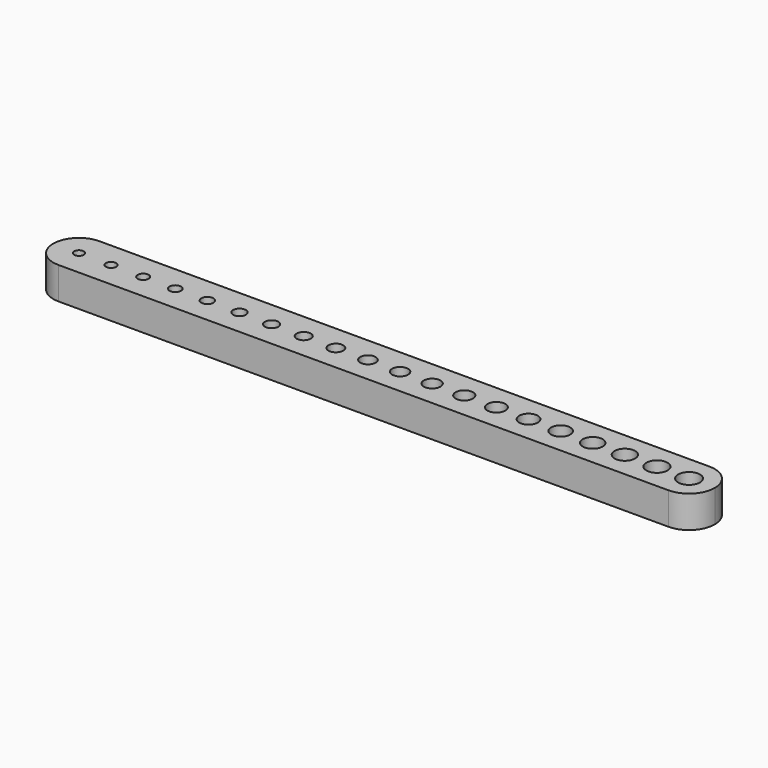
from build123d import *

# Parameters (mm, degrees)
F0_R     = 0.75
F0_R_2   = 0.79996447
F0_R_3   = 0.8499664439
F0_R_4   = 0.8999684178
F0_R_5   = 0.9499703917
F0_R_6   = 0.9999723655
F0_R_7   = 1.0499743394
F0_R_8   = 1.0999763133
F0_R_9   = 1.1499782872
F0_R_10  = 1.1999802611
F0_R_11  = 1.249982235
F0_R_12  = 1.2999842089
F0_R_13  = 1.3499861828
F0_R_14  = 1.3999881567
F0_R_15  = 1.4499901306
F0_R_16  = 1.4999921044
F0_R_17  = 1.5499940783
F0_R_18  = 1.5999960522
F0_R_19  = 1.6499980261
F0_R_20  = 1.7
F1_DEPTH = 5


with BuildPart() as f1:
    # F0 (on Top) → F1 (new body)
    with BuildSketch(Plane.XY):
        with BuildLine():
            ThreePointArc((0, 4), (1.1715728753, 1.1715728753), (4, 0))
            Line((4, 0), (99, 0))
            ThreePointArc((99, 0), (101.8284271247, 1.1715728753), (103, 4))
            ThreePointArc((103, 4), (101.8284271247, 6.8284271247), (99, 8))
            Line((99, 8), (94, 8))
            Line((94, 8), (89, 8))
            Line((89, 8), (84, 8))
            Line((84, 8), (79, 8))
            Line((79, 8), (74, 8))
            Line((74, 8), (69, 8))
            Line((69, 8), (64, 8))
            Line((64, 8), (59, 8))
            Line((59, 8), (54, 8))
            Line((54, 8), (49, 8))
            Line((49, 8), (44, 8))
            Line((44, 8), (39, 8))
            Line((39, 8), (34, 8))
            Line((34, 8), (29, 8))
            Line((29, 8), (24, 8))
            Line((24, 8), (19, 8))
            Line((19, 8), (14, 8))
            Line((14, 8), (9, 8))
            Line((9, 8), (4, 8))
            ThreePointArc((4, 8), (1.1715728753, 6.8284271247), (0, 4))
        make_face()
        with Locations((4, 4)):
            Circle(F0_R, mode=Mode.SUBTRACT)
        with Locations((9, 4)):
            Circle(F0_R_2, mode=Mode.SUBTRACT)
        with Locations((14, 4)):
            Circle(F0_R_3, mode=Mode.SUBTRACT)
        with Locations((19, 4)):
            Circle(F0_R_4, mode=Mode.SUBTRACT)
        with Locations((24, 4)):
            Circle(F0_R_5, mode=Mode.SUBTRACT)
        with Locations((29, 4)):
            Circle(F0_R_6, mode=Mode.SUBTRACT)
        with Locations((34, 4)):
            Circle(F0_R_7, mode=Mode.SUBTRACT)
        with Locations((39, 4)):
            Circle(F0_R_8, mode=Mode.SUBTRACT)
        with Locations((44, 4)):
            Circle(F0_R_9, mode=Mode.SUBTRACT)
        with Locations((49, 4)):
            Circle(F0_R_10, mode=Mode.SUBTRACT)
        with Locations((54, 4)):
            Circle(F0_R_11, mode=Mode.SUBTRACT)
        with Locations((59, 4)):
            Circle(F0_R_12, mode=Mode.SUBTRACT)
        with Locations((64, 4)):
            Circle(F0_R_13, mode=Mode.SUBTRACT)
        with Locations((69, 4)):
            Circle(F0_R_14, mode=Mode.SUBTRACT)
        with Locations((74, 4)):
            Circle(F0_R_15, mode=Mode.SUBTRACT)
        with Locations((79, 4)):
            Circle(F0_R_16, mode=Mode.SUBTRACT)
        with Locations((84, 4)):
            Circle(F0_R_17, mode=Mode.SUBTRACT)
        with Locations((89, 4)):
            Circle(F0_R_18, mode=Mode.SUBTRACT)
        with Locations((94, 4)):
            Circle(F0_R_19, mode=Mode.SUBTRACT)
        with Locations((99, 4)):
            Circle(F0_R_20, mode=Mode.SUBTRACT)
        with BuildLine():
            ThreePointArc((0, 4), (1.1715728753, 1.1715728753), (4, 0))
            Line((4, 0), (99, 0))
            ThreePointArc((99, 0), (101.8284271247, 1.1715728753), (103, 4))
            ThreePointArc((103, 4), (101.8284271247, 6.8284271247), (99, 8))
            Line((99, 8), (94, 8))
            Line((94, 8), (89, 8))
            Line((89, 8), (84, 8))
            Line((84, 8), (79, 8))
            Line((79, 8), (74, 8))
            Line((74, 8), (69, 8))
            Line((69, 8), (64, 8))
            Line((64, 8), (59, 8))
            Line((59, 8), (54, 8))
            Line((54, 8), (49, 8))
            Line((49, 8), (44, 8))
            Line((44, 8), (39, 8))
            Line((39, 8), (34, 8))
            Line((34, 8), (29, 8))
            Line((29, 8), (24, 8))
            Line((24, 8), (19, 8))
            Line((19, 8), (14, 8))
            Line((14, 8), (9, 8))
            Line((9, 8), (4, 8))
            ThreePointArc((4, 8), (1.1715728753, 6.8284271247), (0, 4))
        make_face()
        with Locations((4, 4)):
            Circle(F0_R, mode=Mode.SUBTRACT)
        with Locations((9, 4)):
            Circle(F0_R_2, mode=Mode.SUBTRACT)
        with Locations((14, 4)):
            Circle(F0_R_3, mode=Mode.SUBTRACT)
        with Locations((19, 4)):
            Circle(F0_R_4, mode=Mode.SUBTRACT)
        with Locations((24, 4)):
            Circle(F0_R_5, mode=Mode.SUBTRACT)
        with Locations((29, 4)):
            Circle(F0_R_6, mode=Mode.SUBTRACT)
        with Locations((34, 4)):
            Circle(F0_R_7, mode=Mode.SUBTRACT)
        with Locations((39, 4)):
            Circle(F0_R_8, mode=Mode.SUBTRACT)
        with Locations((44, 4)):
            Circle(F0_R_9, mode=Mode.SUBTRACT)
        with Locations((49, 4)):
            Circle(F0_R_10, mode=Mode.SUBTRACT)
        with Locations((54, 4)):
            Circle(F0_R_11, mode=Mode.SUBTRACT)
        with Locations((59, 4)):
            Circle(F0_R_12, mode=Mode.SUBTRACT)
        with Locations((64, 4)):
            Circle(F0_R_13, mode=Mode.SUBTRACT)
        with Locations((69, 4)):
            Circle(F0_R_14, mode=Mode.SUBTRACT)
        with Locations((74, 4)):
            Circle(F0_R_15, mode=Mode.SUBTRACT)
        with Locations((79, 4)):
            Circle(F0_R_16, mode=Mode.SUBTRACT)
        with Locations((84, 4)):
            Circle(F0_R_17, mode=Mode.SUBTRACT)
        with Locations((89, 4)):
            Circle(F0_R_18, mode=Mode.SUBTRACT)
        with Locations((94, 4)):
            Circle(F0_R_19, mode=Mode.SUBTRACT)
        with Locations((99, 4)):
            Circle(F0_R_20, mode=Mode.SUBTRACT)
        with BuildLine():
            ThreePointArc((0, 4), (1.1715728753, 1.1715728753), (4, 0))
            Line((4, 0), (99, 0))
            ThreePointArc((99, 0), (101.8284271247, 1.1715728753), (103, 4))
            ThreePointArc((103, 4), (101.8284271247, 6.8284271247), (99, 8))
            Line((99, 8), (94, 8))
            Line((94, 8), (89, 8))
            Line((89, 8), (84, 8))
            Line((84, 8), (79, 8))
            Line((79, 8), (74, 8))
            Line((74, 8), (69, 8))
            Line((69, 8), (64, 8))
            Line((64, 8), (59, 8))
            Line((59, 8), (54, 8))
            Line((54, 8), (49, 8))
            Line((49, 8), (44, 8))
            Line((44, 8), (39, 8))
            Line((39, 8), (34, 8))
            Line((34, 8), (29, 8))
            Line((29, 8), (24, 8))
            Line((24, 8), (19, 8))
            Line((19, 8), (14, 8))
            Line((14, 8), (9, 8))
            Line((9, 8), (4, 8))
            ThreePointArc((4, 8), (1.1715728753, 6.8284271247), (0, 4))
        make_face()
        with Locations((4, 4)):
            Circle(F0_R, mode=Mode.SUBTRACT)
        with Locations((9, 4)):
            Circle(F0_R_2, mode=Mode.SUBTRACT)
        with Locations((14, 4)):
            Circle(F0_R_3, mode=Mode.SUBTRACT)
        with Locations((19, 4)):
            Circle(F0_R_4, mode=Mode.SUBTRACT)
        with Locations((24, 4)):
            Circle(F0_R_5, mode=Mode.SUBTRACT)
        with Locations((29, 4)):
            Circle(F0_R_6, mode=Mode.SUBTRACT)
        with Locations((34, 4)):
            Circle(F0_R_7, mode=Mode.SUBTRACT)
        with Locations((39, 4)):
            Circle(F0_R_8, mode=Mode.SUBTRACT)
        with Locations((44, 4)):
            Circle(F0_R_9, mode=Mode.SUBTRACT)
        with Locations((49, 4)):
            Circle(F0_R_10, mode=Mode.SUBTRACT)
        with Locations((54, 4)):
            Circle(F0_R_11, mode=Mode.SUBTRACT)
        with Locations((59, 4)):
            Circle(F0_R_12, mode=Mode.SUBTRACT)
        with Locations((64, 4)):
            Circle(F0_R_13, mode=Mode.SUBTRACT)
        with Locations((69, 4)):
            Circle(F0_R_14, mode=Mode.SUBTRACT)
        with Locations((74, 4)):
            Circle(F0_R_15, mode=Mode.SUBTRACT)
        with Locations((79, 4)):
            Circle(F0_R_16, mode=Mode.SUBTRACT)
        with Locations((84, 4)):
            Circle(F0_R_17, mode=Mode.SUBTRACT)
        with Locations((89, 4)):
            Circle(F0_R_18, mode=Mode.SUBTRACT)
        with Locations((94, 4)):
            Circle(F0_R_19, mode=Mode.SUBTRACT)
        with Locations((99, 4)):
            Circle(F0_R_20, mode=Mode.SUBTRACT)
        with BuildLine():
            ThreePointArc((0, 4), (1.1715728753, 1.1715728753), (4, 0))
            Line((4, 0), (99, 0))
            ThreePointArc((99, 0), (101.8284271247, 1.1715728753), (103, 4))
            ThreePointArc((103, 4), (101.8284271247, 6.8284271247), (99, 8))
            Line((99, 8), (94, 8))
            Line((94, 8), (89, 8))
            Line((89, 8), (84, 8))
            Line((84, 8), (79, 8))
            Line((79, 8), (74, 8))
            Line((74, 8), (69, 8))
            Line((69, 8), (64, 8))
            Line((64, 8), (59, 8))
            Line((59, 8), (54, 8))
            Line((54, 8), (49, 8))
            Line((49, 8), (44, 8))
            Line((44, 8), (39, 8))
            Line((39, 8), (34, 8))
            Line((34, 8), (29, 8))
            Line((29, 8), (24, 8))
            Line((24, 8), (19, 8))
            Line((19, 8), (14, 8))
            Line((14, 8), (9, 8))
            Line((9, 8), (4, 8))
            ThreePointArc((4, 8), (1.1715728753, 6.8284271247), (0, 4))
        make_face()
        with Locations((4, 4)):
            Circle(F0_R, mode=Mode.SUBTRACT)
        with Locations((9, 4)):
            Circle(F0_R_2, mode=Mode.SUBTRACT)
        with Locations((14, 4)):
            Circle(F0_R_3, mode=Mode.SUBTRACT)
        with Locations((19, 4)):
            Circle(F0_R_4, mode=Mode.SUBTRACT)
        with Locations((24, 4)):
            Circle(F0_R_5, mode=Mode.SUBTRACT)
        with Locations((29, 4)):
            Circle(F0_R_6, mode=Mode.SUBTRACT)
        with Locations((34, 4)):
            Circle(F0_R_7, mode=Mode.SUBTRACT)
        with Locations((39, 4)):
            Circle(F0_R_8, mode=Mode.SUBTRACT)
        with Locations((44, 4)):
            Circle(F0_R_9, mode=Mode.SUBTRACT)
        with Locations((49, 4)):
            Circle(F0_R_10, mode=Mode.SUBTRACT)
        with Locations((54, 4)):
            Circle(F0_R_11, mode=Mode.SUBTRACT)
        with Locations((59, 4)):
            Circle(F0_R_12, mode=Mode.SUBTRACT)
        with Locations((64, 4)):
            Circle(F0_R_13, mode=Mode.SUBTRACT)
        with Locations((69, 4)):
            Circle(F0_R_14, mode=Mode.SUBTRACT)
        with Locations((74, 4)):
            Circle(F0_R_15, mode=Mode.SUBTRACT)
        with Locations((79, 4)):
            Circle(F0_R_16, mode=Mode.SUBTRACT)
        with Locations((84, 4)):
            Circle(F0_R_17, mode=Mode.SUBTRACT)
        with Locations((89, 4)):
            Circle(F0_R_18, mode=Mode.SUBTRACT)
        with Locations((94, 4)):
            Circle(F0_R_19, mode=Mode.SUBTRACT)
        with Locations((99, 4)):
            Circle(F0_R_20, mode=Mode.SUBTRACT)
        with BuildLine():
            ThreePointArc((0, 4), (1.1715728753, 1.1715728753), (4, 0))
            Line((4, 0), (99, 0))
            ThreePointArc((99, 0), (101.8284271247, 1.1715728753), (103, 4))
            ThreePointArc((103, 4), (101.8284271247, 6.8284271247), (99, 8))
            Line((99, 8), (94, 8))
            Line((94, 8), (89, 8))
            Line((89, 8), (84, 8))
            Line((84, 8), (79, 8))
            Line((79, 8), (74, 8))
            Line((74, 8), (69, 8))
            Line((69, 8), (64, 8))
            Line((64, 8), (59, 8))
            Line((59, 8), (54, 8))
            Line((54, 8), (49, 8))
            Line((49, 8), (44, 8))
            Line((44, 8), (39, 8))
            Line((39, 8), (34, 8))
            Line((34, 8), (29, 8))
            Line((29, 8), (24, 8))
            Line((24, 8), (19, 8))
            Line((19, 8), (14, 8))
            Line((14, 8), (9, 8))
            Line((9, 8), (4, 8))
            ThreePointArc((4, 8), (1.1715728753, 6.8284271247), (0, 4))
        make_face()
        with Locations((4, 4)):
            Circle(F0_R, mode=Mode.SUBTRACT)
        with Locations((9, 4)):
            Circle(F0_R_2, mode=Mode.SUBTRACT)
        with Locations((14, 4)):
            Circle(F0_R_3, mode=Mode.SUBTRACT)
        with Locations((19, 4)):
            Circle(F0_R_4, mode=Mode.SUBTRACT)
        with Locations((24, 4)):
            Circle(F0_R_5, mode=Mode.SUBTRACT)
        with Locations((29, 4)):
            Circle(F0_R_6, mode=Mode.SUBTRACT)
        with Locations((34, 4)):
            Circle(F0_R_7, mode=Mode.SUBTRACT)
        with Locations((39, 4)):
            Circle(F0_R_8, mode=Mode.SUBTRACT)
        with Locations((44, 4)):
            Circle(F0_R_9, mode=Mode.SUBTRACT)
        with Locations((49, 4)):
            Circle(F0_R_10, mode=Mode.SUBTRACT)
        with Locations((54, 4)):
            Circle(F0_R_11, mode=Mode.SUBTRACT)
        with Locations((59, 4)):
            Circle(F0_R_12, mode=Mode.SUBTRACT)
        with Locations((64, 4)):
            Circle(F0_R_13, mode=Mode.SUBTRACT)
        with Locations((69, 4)):
            Circle(F0_R_14, mode=Mode.SUBTRACT)
        with Locations((74, 4)):
            Circle(F0_R_15, mode=Mode.SUBTRACT)
        with Locations((79, 4)):
            Circle(F0_R_16, mode=Mode.SUBTRACT)
        with Locations((84, 4)):
            Circle(F0_R_17, mode=Mode.SUBTRACT)
        with Locations((89, 4)):
            Circle(F0_R_18, mode=Mode.SUBTRACT)
        with Locations((94, 4)):
            Circle(F0_R_19, mode=Mode.SUBTRACT)
        with Locations((99, 4)):
            Circle(F0_R_20, mode=Mode.SUBTRACT)
        with BuildLine():
            ThreePointArc((0, 4), (1.1715728753, 1.1715728753), (4, 0))
            Line((4, 0), (99, 0))
            ThreePointArc((99, 0), (101.8284271247, 1.1715728753), (103, 4))
            ThreePointArc((103, 4), (101.8284271247, 6.8284271247), (99, 8))
            Line((99, 8), (94, 8))
            Line((94, 8), (89, 8))
            Line((89, 8), (84, 8))
            Line((84, 8), (79, 8))
            Line((79, 8), (74, 8))
            Line((74, 8), (69, 8))
            Line((69, 8), (64, 8))
            Line((64, 8), (59, 8))
            Line((59, 8), (54, 8))
            Line((54, 8), (49, 8))
            Line((49, 8), (44, 8))
            Line((44, 8), (39, 8))
            Line((39, 8), (34, 8))
            Line((34, 8), (29, 8))
            Line((29, 8), (24, 8))
            Line((24, 8), (19, 8))
            Line((19, 8), (14, 8))
            Line((14, 8), (9, 8))
            Line((9, 8), (4, 8))
            ThreePointArc((4, 8), (1.1715728753, 6.8284271247), (0, 4))
        make_face()
        with Locations((4, 4)):
            Circle(F0_R, mode=Mode.SUBTRACT)
        with Locations((9, 4)):
            Circle(F0_R_2, mode=Mode.SUBTRACT)
        with Locations((14, 4)):
            Circle(F0_R_3, mode=Mode.SUBTRACT)
        with Locations((19, 4)):
            Circle(F0_R_4, mode=Mode.SUBTRACT)
        with Locations((24, 4)):
            Circle(F0_R_5, mode=Mode.SUBTRACT)
        with Locations((29, 4)):
            Circle(F0_R_6, mode=Mode.SUBTRACT)
        with Locations((34, 4)):
            Circle(F0_R_7, mode=Mode.SUBTRACT)
        with Locations((39, 4)):
            Circle(F0_R_8, mode=Mode.SUBTRACT)
        with Locations((44, 4)):
            Circle(F0_R_9, mode=Mode.SUBTRACT)
        with Locations((49, 4)):
            Circle(F0_R_10, mode=Mode.SUBTRACT)
        with Locations((54, 4)):
            Circle(F0_R_11, mode=Mode.SUBTRACT)
        with Locations((59, 4)):
            Circle(F0_R_12, mode=Mode.SUBTRACT)
        with Locations((64, 4)):
            Circle(F0_R_13, mode=Mode.SUBTRACT)
        with Locations((69, 4)):
            Circle(F0_R_14, mode=Mode.SUBTRACT)
        with Locations((74, 4)):
            Circle(F0_R_15, mode=Mode.SUBTRACT)
        with Locations((79, 4)):
            Circle(F0_R_16, mode=Mode.SUBTRACT)
        with Locations((84, 4)):
            Circle(F0_R_17, mode=Mode.SUBTRACT)
        with Locations((89, 4)):
            Circle(F0_R_18, mode=Mode.SUBTRACT)
        with Locations((94, 4)):
            Circle(F0_R_19, mode=Mode.SUBTRACT)
        with Locations((99, 4)):
            Circle(F0_R_20, mode=Mode.SUBTRACT)
        with BuildLine():
            ThreePointArc((0, 4), (1.1715728753, 1.1715728753), (4, 0))
            Line((4, 0), (99, 0))
            ThreePointArc((99, 0), (101.8284271247, 1.1715728753), (103, 4))
            ThreePointArc((103, 4), (101.8284271247, 6.8284271247), (99, 8))
            Line((99, 8), (94, 8))
            Line((94, 8), (89, 8))
            Line((89, 8), (84, 8))
            Line((84, 8), (79, 8))
            Line((79, 8), (74, 8))
            Line((74, 8), (69, 8))
            Line((69, 8), (64, 8))
            Line((64, 8), (59, 8))
            Line((59, 8), (54, 8))
            Line((54, 8), (49, 8))
            Line((49, 8), (44, 8))
            Line((44, 8), (39, 8))
            Line((39, 8), (34, 8))
            Line((34, 8), (29, 8))
            Line((29, 8), (24, 8))
            Line((24, 8), (19, 8))
            Line((19, 8), (14, 8))
            Line((14, 8), (9, 8))
            Line((9, 8), (4, 8))
            ThreePointArc((4, 8), (1.1715728753, 6.8284271247), (0, 4))
        make_face()
        with Locations((4, 4)):
            Circle(F0_R, mode=Mode.SUBTRACT)
        with Locations((9, 4)):
            Circle(F0_R_2, mode=Mode.SUBTRACT)
        with Locations((14, 4)):
            Circle(F0_R_3, mode=Mode.SUBTRACT)
        with Locations((19, 4)):
            Circle(F0_R_4, mode=Mode.SUBTRACT)
        with Locations((24, 4)):
            Circle(F0_R_5, mode=Mode.SUBTRACT)
        with Locations((29, 4)):
            Circle(F0_R_6, mode=Mode.SUBTRACT)
        with Locations((34, 4)):
            Circle(F0_R_7, mode=Mode.SUBTRACT)
        with Locations((39, 4)):
            Circle(F0_R_8, mode=Mode.SUBTRACT)
        with Locations((44, 4)):
            Circle(F0_R_9, mode=Mode.SUBTRACT)
        with Locations((49, 4)):
            Circle(F0_R_10, mode=Mode.SUBTRACT)
        with Locations((54, 4)):
            Circle(F0_R_11, mode=Mode.SUBTRACT)
        with Locations((59, 4)):
            Circle(F0_R_12, mode=Mode.SUBTRACT)
        with Locations((64, 4)):
            Circle(F0_R_13, mode=Mode.SUBTRACT)
        with Locations((69, 4)):
            Circle(F0_R_14, mode=Mode.SUBTRACT)
        with Locations((74, 4)):
            Circle(F0_R_15, mode=Mode.SUBTRACT)
        with Locations((79, 4)):
            Circle(F0_R_16, mode=Mode.SUBTRACT)
        with Locations((84, 4)):
            Circle(F0_R_17, mode=Mode.SUBTRACT)
        with Locations((89, 4)):
            Circle(F0_R_18, mode=Mode.SUBTRACT)
        with Locations((94, 4)):
            Circle(F0_R_19, mode=Mode.SUBTRACT)
        with Locations((99, 4)):
            Circle(F0_R_20, mode=Mode.SUBTRACT)
        with BuildLine():
            ThreePointArc((0, 4), (1.1715728753, 1.1715728753), (4, 0))
            Line((4, 0), (99, 0))
            ThreePointArc((99, 0), (101.8284271247, 1.1715728753), (103, 4))
            ThreePointArc((103, 4), (101.8284271247, 6.8284271247), (99, 8))
            Line((99, 8), (94, 8))
            Line((94, 8), (89, 8))
            Line((89, 8), (84, 8))
            Line((84, 8), (79, 8))
            Line((79, 8), (74, 8))
            Line((74, 8), (69, 8))
            Line((69, 8), (64, 8))
            Line((64, 8), (59, 8))
            Line((59, 8), (54, 8))
            Line((54, 8), (49, 8))
            Line((49, 8), (44, 8))
            Line((44, 8), (39, 8))
            Line((39, 8), (34, 8))
            Line((34, 8), (29, 8))
            Line((29, 8), (24, 8))
            Line((24, 8), (19, 8))
            Line((19, 8), (14, 8))
            Line((14, 8), (9, 8))
            Line((9, 8), (4, 8))
            ThreePointArc((4, 8), (1.1715728753, 6.8284271247), (0, 4))
        make_face()
        with Locations((4, 4)):
            Circle(F0_R, mode=Mode.SUBTRACT)
        with Locations((9, 4)):
            Circle(F0_R_2, mode=Mode.SUBTRACT)
        with Locations((14, 4)):
            Circle(F0_R_3, mode=Mode.SUBTRACT)
        with Locations((19, 4)):
            Circle(F0_R_4, mode=Mode.SUBTRACT)
        with Locations((24, 4)):
            Circle(F0_R_5, mode=Mode.SUBTRACT)
        with Locations((29, 4)):
            Circle(F0_R_6, mode=Mode.SUBTRACT)
        with Locations((34, 4)):
            Circle(F0_R_7, mode=Mode.SUBTRACT)
        with Locations((39, 4)):
            Circle(F0_R_8, mode=Mode.SUBTRACT)
        with Locations((44, 4)):
            Circle(F0_R_9, mode=Mode.SUBTRACT)
        with Locations((49, 4)):
            Circle(F0_R_10, mode=Mode.SUBTRACT)
        with Locations((54, 4)):
            Circle(F0_R_11, mode=Mode.SUBTRACT)
        with Locations((59, 4)):
            Circle(F0_R_12, mode=Mode.SUBTRACT)
        with Locations((64, 4)):
            Circle(F0_R_13, mode=Mode.SUBTRACT)
        with Locations((69, 4)):
            Circle(F0_R_14, mode=Mode.SUBTRACT)
        with Locations((74, 4)):
            Circle(F0_R_15, mode=Mode.SUBTRACT)
        with Locations((79, 4)):
            Circle(F0_R_16, mode=Mode.SUBTRACT)
        with Locations((84, 4)):
            Circle(F0_R_17, mode=Mode.SUBTRACT)
        with Locations((89, 4)):
            Circle(F0_R_18, mode=Mode.SUBTRACT)
        with Locations((94, 4)):
            Circle(F0_R_19, mode=Mode.SUBTRACT)
        with Locations((99, 4)):
            Circle(F0_R_20, mode=Mode.SUBTRACT)
        with BuildLine():
            ThreePointArc((0, 4), (1.1715728753, 1.1715728753), (4, 0))
            Line((4, 0), (99, 0))
            ThreePointArc((99, 0), (101.8284271247, 1.1715728753), (103, 4))
            ThreePointArc((103, 4), (101.8284271247, 6.8284271247), (99, 8))
            Line((99, 8), (94, 8))
            Line((94, 8), (89, 8))
            Line((89, 8), (84, 8))
            Line((84, 8), (79, 8))
            Line((79, 8), (74, 8))
            Line((74, 8), (69, 8))
            Line((69, 8), (64, 8))
            Line((64, 8), (59, 8))
            Line((59, 8), (54, 8))
            Line((54, 8), (49, 8))
            Line((49, 8), (44, 8))
            Line((44, 8), (39, 8))
            Line((39, 8), (34, 8))
            Line((34, 8), (29, 8))
            Line((29, 8), (24, 8))
            Line((24, 8), (19, 8))
            Line((19, 8), (14, 8))
            Line((14, 8), (9, 8))
            Line((9, 8), (4, 8))
            ThreePointArc((4, 8), (1.1715728753, 6.8284271247), (0, 4))
        make_face()
        with Locations((4, 4)):
            Circle(F0_R, mode=Mode.SUBTRACT)
        with Locations((9, 4)):
            Circle(F0_R_2, mode=Mode.SUBTRACT)
        with Locations((14, 4)):
            Circle(F0_R_3, mode=Mode.SUBTRACT)
        with Locations((19, 4)):
            Circle(F0_R_4, mode=Mode.SUBTRACT)
        with Locations((24, 4)):
            Circle(F0_R_5, mode=Mode.SUBTRACT)
        with Locations((29, 4)):
            Circle(F0_R_6, mode=Mode.SUBTRACT)
        with Locations((34, 4)):
            Circle(F0_R_7, mode=Mode.SUBTRACT)
        with Locations((39, 4)):
            Circle(F0_R_8, mode=Mode.SUBTRACT)
        with Locations((44, 4)):
            Circle(F0_R_9, mode=Mode.SUBTRACT)
        with Locations((49, 4)):
            Circle(F0_R_10, mode=Mode.SUBTRACT)
        with Locations((54, 4)):
            Circle(F0_R_11, mode=Mode.SUBTRACT)
        with Locations((59, 4)):
            Circle(F0_R_12, mode=Mode.SUBTRACT)
        with Locations((64, 4)):
            Circle(F0_R_13, mode=Mode.SUBTRACT)
        with Locations((69, 4)):
            Circle(F0_R_14, mode=Mode.SUBTRACT)
        with Locations((74, 4)):
            Circle(F0_R_15, mode=Mode.SUBTRACT)
        with Locations((79, 4)):
            Circle(F0_R_16, mode=Mode.SUBTRACT)
        with Locations((84, 4)):
            Circle(F0_R_17, mode=Mode.SUBTRACT)
        with Locations((89, 4)):
            Circle(F0_R_18, mode=Mode.SUBTRACT)
        with Locations((94, 4)):
            Circle(F0_R_19, mode=Mode.SUBTRACT)
        with Locations((99, 4)):
            Circle(F0_R_20, mode=Mode.SUBTRACT)
        with BuildLine():
            ThreePointArc((0, 4), (1.1715728753, 1.1715728753), (4, 0))
            Line((4, 0), (99, 0))
            ThreePointArc((99, 0), (101.8284271247, 1.1715728753), (103, 4))
            ThreePointArc((103, 4), (101.8284271247, 6.8284271247), (99, 8))
            Line((99, 8), (94, 8))
            Line((94, 8), (89, 8))
            Line((89, 8), (84, 8))
            Line((84, 8), (79, 8))
            Line((79, 8), (74, 8))
            Line((74, 8), (69, 8))
            Line((69, 8), (64, 8))
            Line((64, 8), (59, 8))
            Line((59, 8), (54, 8))
            Line((54, 8), (49, 8))
            Line((49, 8), (44, 8))
            Line((44, 8), (39, 8))
            Line((39, 8), (34, 8))
            Line((34, 8), (29, 8))
            Line((29, 8), (24, 8))
            Line((24, 8), (19, 8))
            Line((19, 8), (14, 8))
            Line((14, 8), (9, 8))
            Line((9, 8), (4, 8))
            ThreePointArc((4, 8), (1.1715728753, 6.8284271247), (0, 4))
        make_face()
        with Locations((4, 4)):
            Circle(F0_R, mode=Mode.SUBTRACT)
        with Locations((9, 4)):
            Circle(F0_R_2, mode=Mode.SUBTRACT)
        with Locations((14, 4)):
            Circle(F0_R_3, mode=Mode.SUBTRACT)
        with Locations((19, 4)):
            Circle(F0_R_4, mode=Mode.SUBTRACT)
        with Locations((24, 4)):
            Circle(F0_R_5, mode=Mode.SUBTRACT)
        with Locations((29, 4)):
            Circle(F0_R_6, mode=Mode.SUBTRACT)
        with Locations((34, 4)):
            Circle(F0_R_7, mode=Mode.SUBTRACT)
        with Locations((39, 4)):
            Circle(F0_R_8, mode=Mode.SUBTRACT)
        with Locations((44, 4)):
            Circle(F0_R_9, mode=Mode.SUBTRACT)
        with Locations((49, 4)):
            Circle(F0_R_10, mode=Mode.SUBTRACT)
        with Locations((54, 4)):
            Circle(F0_R_11, mode=Mode.SUBTRACT)
        with Locations((59, 4)):
            Circle(F0_R_12, mode=Mode.SUBTRACT)
        with Locations((64, 4)):
            Circle(F0_R_13, mode=Mode.SUBTRACT)
        with Locations((69, 4)):
            Circle(F0_R_14, mode=Mode.SUBTRACT)
        with Locations((74, 4)):
            Circle(F0_R_15, mode=Mode.SUBTRACT)
        with Locations((79, 4)):
            Circle(F0_R_16, mode=Mode.SUBTRACT)
        with Locations((84, 4)):
            Circle(F0_R_17, mode=Mode.SUBTRACT)
        with Locations((89, 4)):
            Circle(F0_R_18, mode=Mode.SUBTRACT)
        with Locations((94, 4)):
            Circle(F0_R_19, mode=Mode.SUBTRACT)
        with Locations((99, 4)):
            Circle(F0_R_20, mode=Mode.SUBTRACT)
        with BuildLine():
            ThreePointArc((0, 4), (1.1715728753, 1.1715728753), (4, 0))
            Line((4, 0), (99, 0))
            ThreePointArc((99, 0), (101.8284271247, 1.1715728753), (103, 4))
            ThreePointArc((103, 4), (101.8284271247, 6.8284271247), (99, 8))
            Line((99, 8), (94, 8))
            Line((94, 8), (89, 8))
            Line((89, 8), (84, 8))
            Line((84, 8), (79, 8))
            Line((79, 8), (74, 8))
            Line((74, 8), (69, 8))
            Line((69, 8), (64, 8))
            Line((64, 8), (59, 8))
            Line((59, 8), (54, 8))
            Line((54, 8), (49, 8))
            Line((49, 8), (44, 8))
            Line((44, 8), (39, 8))
            Line((39, 8), (34, 8))
            Line((34, 8), (29, 8))
            Line((29, 8), (24, 8))
            Line((24, 8), (19, 8))
            Line((19, 8), (14, 8))
            Line((14, 8), (9, 8))
            Line((9, 8), (4, 8))
            ThreePointArc((4, 8), (1.1715728753, 6.8284271247), (0, 4))
        make_face()
        with Locations((4, 4)):
            Circle(F0_R, mode=Mode.SUBTRACT)
        with Locations((9, 4)):
            Circle(F0_R_2, mode=Mode.SUBTRACT)
        with Locations((14, 4)):
            Circle(F0_R_3, mode=Mode.SUBTRACT)
        with Locations((19, 4)):
            Circle(F0_R_4, mode=Mode.SUBTRACT)
        with Locations((24, 4)):
            Circle(F0_R_5, mode=Mode.SUBTRACT)
        with Locations((29, 4)):
            Circle(F0_R_6, mode=Mode.SUBTRACT)
        with Locations((34, 4)):
            Circle(F0_R_7, mode=Mode.SUBTRACT)
        with Locations((39, 4)):
            Circle(F0_R_8, mode=Mode.SUBTRACT)
        with Locations((44, 4)):
            Circle(F0_R_9, mode=Mode.SUBTRACT)
        with Locations((49, 4)):
            Circle(F0_R_10, mode=Mode.SUBTRACT)
        with Locations((54, 4)):
            Circle(F0_R_11, mode=Mode.SUBTRACT)
        with Locations((59, 4)):
            Circle(F0_R_12, mode=Mode.SUBTRACT)
        with Locations((64, 4)):
            Circle(F0_R_13, mode=Mode.SUBTRACT)
        with Locations((69, 4)):
            Circle(F0_R_14, mode=Mode.SUBTRACT)
        with Locations((74, 4)):
            Circle(F0_R_15, mode=Mode.SUBTRACT)
        with Locations((79, 4)):
            Circle(F0_R_16, mode=Mode.SUBTRACT)
        with Locations((84, 4)):
            Circle(F0_R_17, mode=Mode.SUBTRACT)
        with Locations((89, 4)):
            Circle(F0_R_18, mode=Mode.SUBTRACT)
        with Locations((94, 4)):
            Circle(F0_R_19, mode=Mode.SUBTRACT)
        with Locations((99, 4)):
            Circle(F0_R_20, mode=Mode.SUBTRACT)
        with BuildLine():
            ThreePointArc((0, 4), (1.1715728753, 1.1715728753), (4, 0))
            Line((4, 0), (99, 0))
            ThreePointArc((99, 0), (101.8284271247, 1.1715728753), (103, 4))
            ThreePointArc((103, 4), (101.8284271247, 6.8284271247), (99, 8))
            Line((99, 8), (94, 8))
            Line((94, 8), (89, 8))
            Line((89, 8), (84, 8))
            Line((84, 8), (79, 8))
            Line((79, 8), (74, 8))
            Line((74, 8), (69, 8))
            Line((69, 8), (64, 8))
            Line((64, 8), (59, 8))
            Line((59, 8), (54, 8))
            Line((54, 8), (49, 8))
            Line((49, 8), (44, 8))
            Line((44, 8), (39, 8))
            Line((39, 8), (34, 8))
            Line((34, 8), (29, 8))
            Line((29, 8), (24, 8))
            Line((24, 8), (19, 8))
            Line((19, 8), (14, 8))
            Line((14, 8), (9, 8))
            Line((9, 8), (4, 8))
            ThreePointArc((4, 8), (1.1715728753, 6.8284271247), (0, 4))
        make_face()
        with Locations((4, 4)):
            Circle(F0_R, mode=Mode.SUBTRACT)
        with Locations((9, 4)):
            Circle(F0_R_2, mode=Mode.SUBTRACT)
        with Locations((14, 4)):
            Circle(F0_R_3, mode=Mode.SUBTRACT)
        with Locations((19, 4)):
            Circle(F0_R_4, mode=Mode.SUBTRACT)
        with Locations((24, 4)):
            Circle(F0_R_5, mode=Mode.SUBTRACT)
        with Locations((29, 4)):
            Circle(F0_R_6, mode=Mode.SUBTRACT)
        with Locations((34, 4)):
            Circle(F0_R_7, mode=Mode.SUBTRACT)
        with Locations((39, 4)):
            Circle(F0_R_8, mode=Mode.SUBTRACT)
        with Locations((44, 4)):
            Circle(F0_R_9, mode=Mode.SUBTRACT)
        with Locations((49, 4)):
            Circle(F0_R_10, mode=Mode.SUBTRACT)
        with Locations((54, 4)):
            Circle(F0_R_11, mode=Mode.SUBTRACT)
        with Locations((59, 4)):
            Circle(F0_R_12, mode=Mode.SUBTRACT)
        with Locations((64, 4)):
            Circle(F0_R_13, mode=Mode.SUBTRACT)
        with Locations((69, 4)):
            Circle(F0_R_14, mode=Mode.SUBTRACT)
        with Locations((74, 4)):
            Circle(F0_R_15, mode=Mode.SUBTRACT)
        with Locations((79, 4)):
            Circle(F0_R_16, mode=Mode.SUBTRACT)
        with Locations((84, 4)):
            Circle(F0_R_17, mode=Mode.SUBTRACT)
        with Locations((89, 4)):
            Circle(F0_R_18, mode=Mode.SUBTRACT)
        with Locations((94, 4)):
            Circle(F0_R_19, mode=Mode.SUBTRACT)
        with Locations((99, 4)):
            Circle(F0_R_20, mode=Mode.SUBTRACT)
        with BuildLine():
            ThreePointArc((0, 4), (1.1715728753, 1.1715728753), (4, 0))
            Line((4, 0), (99, 0))
            ThreePointArc((99, 0), (101.8284271247, 1.1715728753), (103, 4))
            ThreePointArc((103, 4), (101.8284271247, 6.8284271247), (99, 8))
            Line((99, 8), (94, 8))
            Line((94, 8), (89, 8))
            Line((89, 8), (84, 8))
            Line((84, 8), (79, 8))
            Line((79, 8), (74, 8))
            Line((74, 8), (69, 8))
            Line((69, 8), (64, 8))
            Line((64, 8), (59, 8))
            Line((59, 8), (54, 8))
            Line((54, 8), (49, 8))
            Line((49, 8), (44, 8))
            Line((44, 8), (39, 8))
            Line((39, 8), (34, 8))
            Line((34, 8), (29, 8))
            Line((29, 8), (24, 8))
            Line((24, 8), (19, 8))
            Line((19, 8), (14, 8))
            Line((14, 8), (9, 8))
            Line((9, 8), (4, 8))
            ThreePointArc((4, 8), (1.1715728753, 6.8284271247), (0, 4))
        make_face()
        with Locations((4, 4)):
            Circle(F0_R, mode=Mode.SUBTRACT)
        with Locations((9, 4)):
            Circle(F0_R_2, mode=Mode.SUBTRACT)
        with Locations((14, 4)):
            Circle(F0_R_3, mode=Mode.SUBTRACT)
        with Locations((19, 4)):
            Circle(F0_R_4, mode=Mode.SUBTRACT)
        with Locations((24, 4)):
            Circle(F0_R_5, mode=Mode.SUBTRACT)
        with Locations((29, 4)):
            Circle(F0_R_6, mode=Mode.SUBTRACT)
        with Locations((34, 4)):
            Circle(F0_R_7, mode=Mode.SUBTRACT)
        with Locations((39, 4)):
            Circle(F0_R_8, mode=Mode.SUBTRACT)
        with Locations((44, 4)):
            Circle(F0_R_9, mode=Mode.SUBTRACT)
        with Locations((49, 4)):
            Circle(F0_R_10, mode=Mode.SUBTRACT)
        with Locations((54, 4)):
            Circle(F0_R_11, mode=Mode.SUBTRACT)
        with Locations((59, 4)):
            Circle(F0_R_12, mode=Mode.SUBTRACT)
        with Locations((64, 4)):
            Circle(F0_R_13, mode=Mode.SUBTRACT)
        with Locations((69, 4)):
            Circle(F0_R_14, mode=Mode.SUBTRACT)
        with Locations((74, 4)):
            Circle(F0_R_15, mode=Mode.SUBTRACT)
        with Locations((79, 4)):
            Circle(F0_R_16, mode=Mode.SUBTRACT)
        with Locations((84, 4)):
            Circle(F0_R_17, mode=Mode.SUBTRACT)
        with Locations((89, 4)):
            Circle(F0_R_18, mode=Mode.SUBTRACT)
        with Locations((94, 4)):
            Circle(F0_R_19, mode=Mode.SUBTRACT)
        with Locations((99, 4)):
            Circle(F0_R_20, mode=Mode.SUBTRACT)
        with BuildLine():
            ThreePointArc((0, 4), (1.1715728753, 1.1715728753), (4, 0))
            Line((4, 0), (99, 0))
            ThreePointArc((99, 0), (101.8284271247, 1.1715728753), (103, 4))
            ThreePointArc((103, 4), (101.8284271247, 6.8284271247), (99, 8))
            Line((99, 8), (94, 8))
            Line((94, 8), (89, 8))
            Line((89, 8), (84, 8))
            Line((84, 8), (79, 8))
            Line((79, 8), (74, 8))
            Line((74, 8), (69, 8))
            Line((69, 8), (64, 8))
            Line((64, 8), (59, 8))
            Line((59, 8), (54, 8))
            Line((54, 8), (49, 8))
            Line((49, 8), (44, 8))
            Line((44, 8), (39, 8))
            Line((39, 8), (34, 8))
            Line((34, 8), (29, 8))
            Line((29, 8), (24, 8))
            Line((24, 8), (19, 8))
            Line((19, 8), (14, 8))
            Line((14, 8), (9, 8))
            Line((9, 8), (4, 8))
            ThreePointArc((4, 8), (1.1715728753, 6.8284271247), (0, 4))
        make_face()
        with Locations((4, 4)):
            Circle(F0_R, mode=Mode.SUBTRACT)
        with Locations((9, 4)):
            Circle(F0_R_2, mode=Mode.SUBTRACT)
        with Locations((14, 4)):
            Circle(F0_R_3, mode=Mode.SUBTRACT)
        with Locations((19, 4)):
            Circle(F0_R_4, mode=Mode.SUBTRACT)
        with Locations((24, 4)):
            Circle(F0_R_5, mode=Mode.SUBTRACT)
        with Locations((29, 4)):
            Circle(F0_R_6, mode=Mode.SUBTRACT)
        with Locations((34, 4)):
            Circle(F0_R_7, mode=Mode.SUBTRACT)
        with Locations((39, 4)):
            Circle(F0_R_8, mode=Mode.SUBTRACT)
        with Locations((44, 4)):
            Circle(F0_R_9, mode=Mode.SUBTRACT)
        with Locations((49, 4)):
            Circle(F0_R_10, mode=Mode.SUBTRACT)
        with Locations((54, 4)):
            Circle(F0_R_11, mode=Mode.SUBTRACT)
        with Locations((59, 4)):
            Circle(F0_R_12, mode=Mode.SUBTRACT)
        with Locations((64, 4)):
            Circle(F0_R_13, mode=Mode.SUBTRACT)
        with Locations((69, 4)):
            Circle(F0_R_14, mode=Mode.SUBTRACT)
        with Locations((74, 4)):
            Circle(F0_R_15, mode=Mode.SUBTRACT)
        with Locations((79, 4)):
            Circle(F0_R_16, mode=Mode.SUBTRACT)
        with Locations((84, 4)):
            Circle(F0_R_17, mode=Mode.SUBTRACT)
        with Locations((89, 4)):
            Circle(F0_R_18, mode=Mode.SUBTRACT)
        with Locations((94, 4)):
            Circle(F0_R_19, mode=Mode.SUBTRACT)
        with Locations((99, 4)):
            Circle(F0_R_20, mode=Mode.SUBTRACT)
        with BuildLine():
            ThreePointArc((0, 4), (1.1715728753, 1.1715728753), (4, 0))
            Line((4, 0), (99, 0))
            ThreePointArc((99, 0), (101.8284271247, 1.1715728753), (103, 4))
            ThreePointArc((103, 4), (101.8284271247, 6.8284271247), (99, 8))
            Line((99, 8), (94, 8))
            Line((94, 8), (89, 8))
            Line((89, 8), (84, 8))
            Line((84, 8), (79, 8))
            Line((79, 8), (74, 8))
            Line((74, 8), (69, 8))
            Line((69, 8), (64, 8))
            Line((64, 8), (59, 8))
            Line((59, 8), (54, 8))
            Line((54, 8), (49, 8))
            Line((49, 8), (44, 8))
            Line((44, 8), (39, 8))
            Line((39, 8), (34, 8))
            Line((34, 8), (29, 8))
            Line((29, 8), (24, 8))
            Line((24, 8), (19, 8))
            Line((19, 8), (14, 8))
            Line((14, 8), (9, 8))
            Line((9, 8), (4, 8))
            ThreePointArc((4, 8), (1.1715728753, 6.8284271247), (0, 4))
        make_face()
        with Locations((4, 4)):
            Circle(F0_R, mode=Mode.SUBTRACT)
        with Locations((9, 4)):
            Circle(F0_R_2, mode=Mode.SUBTRACT)
        with Locations((14, 4)):
            Circle(F0_R_3, mode=Mode.SUBTRACT)
        with Locations((19, 4)):
            Circle(F0_R_4, mode=Mode.SUBTRACT)
        with Locations((24, 4)):
            Circle(F0_R_5, mode=Mode.SUBTRACT)
        with Locations((29, 4)):
            Circle(F0_R_6, mode=Mode.SUBTRACT)
        with Locations((34, 4)):
            Circle(F0_R_7, mode=Mode.SUBTRACT)
        with Locations((39, 4)):
            Circle(F0_R_8, mode=Mode.SUBTRACT)
        with Locations((44, 4)):
            Circle(F0_R_9, mode=Mode.SUBTRACT)
        with Locations((49, 4)):
            Circle(F0_R_10, mode=Mode.SUBTRACT)
        with Locations((54, 4)):
            Circle(F0_R_11, mode=Mode.SUBTRACT)
        with Locations((59, 4)):
            Circle(F0_R_12, mode=Mode.SUBTRACT)
        with Locations((64, 4)):
            Circle(F0_R_13, mode=Mode.SUBTRACT)
        with Locations((69, 4)):
            Circle(F0_R_14, mode=Mode.SUBTRACT)
        with Locations((74, 4)):
            Circle(F0_R_15, mode=Mode.SUBTRACT)
        with Locations((79, 4)):
            Circle(F0_R_16, mode=Mode.SUBTRACT)
        with Locations((84, 4)):
            Circle(F0_R_17, mode=Mode.SUBTRACT)
        with Locations((89, 4)):
            Circle(F0_R_18, mode=Mode.SUBTRACT)
        with Locations((94, 4)):
            Circle(F0_R_19, mode=Mode.SUBTRACT)
        with Locations((99, 4)):
            Circle(F0_R_20, mode=Mode.SUBTRACT)
        with BuildLine():
            ThreePointArc((0, 4), (1.1715728753, 1.1715728753), (4, 0))
            Line((4, 0), (99, 0))
            ThreePointArc((99, 0), (101.8284271247, 1.1715728753), (103, 4))
            ThreePointArc((103, 4), (101.8284271247, 6.8284271247), (99, 8))
            Line((99, 8), (94, 8))
            Line((94, 8), (89, 8))
            Line((89, 8), (84, 8))
            Line((84, 8), (79, 8))
            Line((79, 8), (74, 8))
            Line((74, 8), (69, 8))
            Line((69, 8), (64, 8))
            Line((64, 8), (59, 8))
            Line((59, 8), (54, 8))
            Line((54, 8), (49, 8))
            Line((49, 8), (44, 8))
            Line((44, 8), (39, 8))
            Line((39, 8), (34, 8))
            Line((34, 8), (29, 8))
            Line((29, 8), (24, 8))
            Line((24, 8), (19, 8))
            Line((19, 8), (14, 8))
            Line((14, 8), (9, 8))
            Line((9, 8), (4, 8))
            ThreePointArc((4, 8), (1.1715728753, 6.8284271247), (0, 4))
        make_face()
        with Locations((4, 4)):
            Circle(F0_R, mode=Mode.SUBTRACT)
        with Locations((9, 4)):
            Circle(F0_R_2, mode=Mode.SUBTRACT)
        with Locations((14, 4)):
            Circle(F0_R_3, mode=Mode.SUBTRACT)
        with Locations((19, 4)):
            Circle(F0_R_4, mode=Mode.SUBTRACT)
        with Locations((24, 4)):
            Circle(F0_R_5, mode=Mode.SUBTRACT)
        with Locations((29, 4)):
            Circle(F0_R_6, mode=Mode.SUBTRACT)
        with Locations((34, 4)):
            Circle(F0_R_7, mode=Mode.SUBTRACT)
        with Locations((39, 4)):
            Circle(F0_R_8, mode=Mode.SUBTRACT)
        with Locations((44, 4)):
            Circle(F0_R_9, mode=Mode.SUBTRACT)
        with Locations((49, 4)):
            Circle(F0_R_10, mode=Mode.SUBTRACT)
        with Locations((54, 4)):
            Circle(F0_R_11, mode=Mode.SUBTRACT)
        with Locations((59, 4)):
            Circle(F0_R_12, mode=Mode.SUBTRACT)
        with Locations((64, 4)):
            Circle(F0_R_13, mode=Mode.SUBTRACT)
        with Locations((69, 4)):
            Circle(F0_R_14, mode=Mode.SUBTRACT)
        with Locations((74, 4)):
            Circle(F0_R_15, mode=Mode.SUBTRACT)
        with Locations((79, 4)):
            Circle(F0_R_16, mode=Mode.SUBTRACT)
        with Locations((84, 4)):
            Circle(F0_R_17, mode=Mode.SUBTRACT)
        with Locations((89, 4)):
            Circle(F0_R_18, mode=Mode.SUBTRACT)
        with Locations((94, 4)):
            Circle(F0_R_19, mode=Mode.SUBTRACT)
        with Locations((99, 4)):
            Circle(F0_R_20, mode=Mode.SUBTRACT)
        with BuildLine():
            ThreePointArc((0, 4), (1.1715728753, 1.1715728753), (4, 0))
            Line((4, 0), (99, 0))
            ThreePointArc((99, 0), (101.8284271247, 1.1715728753), (103, 4))
            ThreePointArc((103, 4), (101.8284271247, 6.8284271247), (99, 8))
            Line((99, 8), (94, 8))
            Line((94, 8), (89, 8))
            Line((89, 8), (84, 8))
            Line((84, 8), (79, 8))
            Line((79, 8), (74, 8))
            Line((74, 8), (69, 8))
            Line((69, 8), (64, 8))
            Line((64, 8), (59, 8))
            Line((59, 8), (54, 8))
            Line((54, 8), (49, 8))
            Line((49, 8), (44, 8))
            Line((44, 8), (39, 8))
            Line((39, 8), (34, 8))
            Line((34, 8), (29, 8))
            Line((29, 8), (24, 8))
            Line((24, 8), (19, 8))
            Line((19, 8), (14, 8))
            Line((14, 8), (9, 8))
            Line((9, 8), (4, 8))
            ThreePointArc((4, 8), (1.1715728753, 6.8284271247), (0, 4))
        make_face()
        with Locations((4, 4)):
            Circle(F0_R, mode=Mode.SUBTRACT)
        with Locations((9, 4)):
            Circle(F0_R_2, mode=Mode.SUBTRACT)
        with Locations((14, 4)):
            Circle(F0_R_3, mode=Mode.SUBTRACT)
        with Locations((19, 4)):
            Circle(F0_R_4, mode=Mode.SUBTRACT)
        with Locations((24, 4)):
            Circle(F0_R_5, mode=Mode.SUBTRACT)
        with Locations((29, 4)):
            Circle(F0_R_6, mode=Mode.SUBTRACT)
        with Locations((34, 4)):
            Circle(F0_R_7, mode=Mode.SUBTRACT)
        with Locations((39, 4)):
            Circle(F0_R_8, mode=Mode.SUBTRACT)
        with Locations((44, 4)):
            Circle(F0_R_9, mode=Mode.SUBTRACT)
        with Locations((49, 4)):
            Circle(F0_R_10, mode=Mode.SUBTRACT)
        with Locations((54, 4)):
            Circle(F0_R_11, mode=Mode.SUBTRACT)
        with Locations((59, 4)):
            Circle(F0_R_12, mode=Mode.SUBTRACT)
        with Locations((64, 4)):
            Circle(F0_R_13, mode=Mode.SUBTRACT)
        with Locations((69, 4)):
            Circle(F0_R_14, mode=Mode.SUBTRACT)
        with Locations((74, 4)):
            Circle(F0_R_15, mode=Mode.SUBTRACT)
        with Locations((79, 4)):
            Circle(F0_R_16, mode=Mode.SUBTRACT)
        with Locations((84, 4)):
            Circle(F0_R_17, mode=Mode.SUBTRACT)
        with Locations((89, 4)):
            Circle(F0_R_18, mode=Mode.SUBTRACT)
        with Locations((94, 4)):
            Circle(F0_R_19, mode=Mode.SUBTRACT)
        with Locations((99, 4)):
            Circle(F0_R_20, mode=Mode.SUBTRACT)
        with BuildLine():
            ThreePointArc((0, 4), (1.1715728753, 1.1715728753), (4, 0))
            Line((4, 0), (99, 0))
            ThreePointArc((99, 0), (101.8284271247, 1.1715728753), (103, 4))
            ThreePointArc((103, 4), (101.8284271247, 6.8284271247), (99, 8))
            Line((99, 8), (94, 8))
            Line((94, 8), (89, 8))
            Line((89, 8), (84, 8))
            Line((84, 8), (79, 8))
            Line((79, 8), (74, 8))
            Line((74, 8), (69, 8))
            Line((69, 8), (64, 8))
            Line((64, 8), (59, 8))
            Line((59, 8), (54, 8))
            Line((54, 8), (49, 8))
            Line((49, 8), (44, 8))
            Line((44, 8), (39, 8))
            Line((39, 8), (34, 8))
            Line((34, 8), (29, 8))
            Line((29, 8), (24, 8))
            Line((24, 8), (19, 8))
            Line((19, 8), (14, 8))
            Line((14, 8), (9, 8))
            Line((9, 8), (4, 8))
            ThreePointArc((4, 8), (1.1715728753, 6.8284271247), (0, 4))
        make_face()
        with Locations((4, 4)):
            Circle(F0_R, mode=Mode.SUBTRACT)
        with Locations((9, 4)):
            Circle(F0_R_2, mode=Mode.SUBTRACT)
        with Locations((14, 4)):
            Circle(F0_R_3, mode=Mode.SUBTRACT)
        with Locations((19, 4)):
            Circle(F0_R_4, mode=Mode.SUBTRACT)
        with Locations((24, 4)):
            Circle(F0_R_5, mode=Mode.SUBTRACT)
        with Locations((29, 4)):
            Circle(F0_R_6, mode=Mode.SUBTRACT)
        with Locations((34, 4)):
            Circle(F0_R_7, mode=Mode.SUBTRACT)
        with Locations((39, 4)):
            Circle(F0_R_8, mode=Mode.SUBTRACT)
        with Locations((44, 4)):
            Circle(F0_R_9, mode=Mode.SUBTRACT)
        with Locations((49, 4)):
            Circle(F0_R_10, mode=Mode.SUBTRACT)
        with Locations((54, 4)):
            Circle(F0_R_11, mode=Mode.SUBTRACT)
        with Locations((59, 4)):
            Circle(F0_R_12, mode=Mode.SUBTRACT)
        with Locations((64, 4)):
            Circle(F0_R_13, mode=Mode.SUBTRACT)
        with Locations((69, 4)):
            Circle(F0_R_14, mode=Mode.SUBTRACT)
        with Locations((74, 4)):
            Circle(F0_R_15, mode=Mode.SUBTRACT)
        with Locations((79, 4)):
            Circle(F0_R_16, mode=Mode.SUBTRACT)
        with Locations((84, 4)):
            Circle(F0_R_17, mode=Mode.SUBTRACT)
        with Locations((89, 4)):
            Circle(F0_R_18, mode=Mode.SUBTRACT)
        with Locations((94, 4)):
            Circle(F0_R_19, mode=Mode.SUBTRACT)
        with Locations((99, 4)):
            Circle(F0_R_20, mode=Mode.SUBTRACT)
        with BuildLine():
            ThreePointArc((0, 4), (1.1715728753, 1.1715728753), (4, 0))
            Line((4, 0), (99, 0))
            ThreePointArc((99, 0), (101.8284271247, 1.1715728753), (103, 4))
            ThreePointArc((103, 4), (101.8284271247, 6.8284271247), (99, 8))
            Line((99, 8), (94, 8))
            Line((94, 8), (89, 8))
            Line((89, 8), (84, 8))
            Line((84, 8), (79, 8))
            Line((79, 8), (74, 8))
            Line((74, 8), (69, 8))
            Line((69, 8), (64, 8))
            Line((64, 8), (59, 8))
            Line((59, 8), (54, 8))
            Line((54, 8), (49, 8))
            Line((49, 8), (44, 8))
            Line((44, 8), (39, 8))
            Line((39, 8), (34, 8))
            Line((34, 8), (29, 8))
            Line((29, 8), (24, 8))
            Line((24, 8), (19, 8))
            Line((19, 8), (14, 8))
            Line((14, 8), (9, 8))
            Line((9, 8), (4, 8))
            ThreePointArc((4, 8), (1.1715728753, 6.8284271247), (0, 4))
        make_face()
        with Locations((4, 4)):
            Circle(F0_R, mode=Mode.SUBTRACT)
        with Locations((9, 4)):
            Circle(F0_R_2, mode=Mode.SUBTRACT)
        with Locations((14, 4)):
            Circle(F0_R_3, mode=Mode.SUBTRACT)
        with Locations((19, 4)):
            Circle(F0_R_4, mode=Mode.SUBTRACT)
        with Locations((24, 4)):
            Circle(F0_R_5, mode=Mode.SUBTRACT)
        with Locations((29, 4)):
            Circle(F0_R_6, mode=Mode.SUBTRACT)
        with Locations((34, 4)):
            Circle(F0_R_7, mode=Mode.SUBTRACT)
        with Locations((39, 4)):
            Circle(F0_R_8, mode=Mode.SUBTRACT)
        with Locations((44, 4)):
            Circle(F0_R_9, mode=Mode.SUBTRACT)
        with Locations((49, 4)):
            Circle(F0_R_10, mode=Mode.SUBTRACT)
        with Locations((54, 4)):
            Circle(F0_R_11, mode=Mode.SUBTRACT)
        with Locations((59, 4)):
            Circle(F0_R_12, mode=Mode.SUBTRACT)
        with Locations((64, 4)):
            Circle(F0_R_13, mode=Mode.SUBTRACT)
        with Locations((69, 4)):
            Circle(F0_R_14, mode=Mode.SUBTRACT)
        with Locations((74, 4)):
            Circle(F0_R_15, mode=Mode.SUBTRACT)
        with Locations((79, 4)):
            Circle(F0_R_16, mode=Mode.SUBTRACT)
        with Locations((84, 4)):
            Circle(F0_R_17, mode=Mode.SUBTRACT)
        with Locations((89, 4)):
            Circle(F0_R_18, mode=Mode.SUBTRACT)
        with Locations((94, 4)):
            Circle(F0_R_19, mode=Mode.SUBTRACT)
        with Locations((99, 4)):
            Circle(F0_R_20, mode=Mode.SUBTRACT)
        with BuildLine():
            ThreePointArc((0, 4), (1.1715728753, 1.1715728753), (4, 0))
            Line((4, 0), (99, 0))
            ThreePointArc((99, 0), (101.8284271247, 1.1715728753), (103, 4))
            ThreePointArc((103, 4), (101.8284271247, 6.8284271247), (99, 8))
            Line((99, 8), (94, 8))
            Line((94, 8), (89, 8))
            Line((89, 8), (84, 8))
            Line((84, 8), (79, 8))
            Line((79, 8), (74, 8))
            Line((74, 8), (69, 8))
            Line((69, 8), (64, 8))
            Line((64, 8), (59, 8))
            Line((59, 8), (54, 8))
            Line((54, 8), (49, 8))
            Line((49, 8), (44, 8))
            Line((44, 8), (39, 8))
            Line((39, 8), (34, 8))
            Line((34, 8), (29, 8))
            Line((29, 8), (24, 8))
            Line((24, 8), (19, 8))
            Line((19, 8), (14, 8))
            Line((14, 8), (9, 8))
            Line((9, 8), (4, 8))
            ThreePointArc((4, 8), (1.1715728753, 6.8284271247), (0, 4))
        make_face()
        with Locations((4, 4)):
            Circle(F0_R, mode=Mode.SUBTRACT)
        with Locations((9, 4)):
            Circle(F0_R_2, mode=Mode.SUBTRACT)
        with Locations((14, 4)):
            Circle(F0_R_3, mode=Mode.SUBTRACT)
        with Locations((19, 4)):
            Circle(F0_R_4, mode=Mode.SUBTRACT)
        with Locations((24, 4)):
            Circle(F0_R_5, mode=Mode.SUBTRACT)
        with Locations((29, 4)):
            Circle(F0_R_6, mode=Mode.SUBTRACT)
        with Locations((34, 4)):
            Circle(F0_R_7, mode=Mode.SUBTRACT)
        with Locations((39, 4)):
            Circle(F0_R_8, mode=Mode.SUBTRACT)
        with Locations((44, 4)):
            Circle(F0_R_9, mode=Mode.SUBTRACT)
        with Locations((49, 4)):
            Circle(F0_R_10, mode=Mode.SUBTRACT)
        with Locations((54, 4)):
            Circle(F0_R_11, mode=Mode.SUBTRACT)
        with Locations((59, 4)):
            Circle(F0_R_12, mode=Mode.SUBTRACT)
        with Locations((64, 4)):
            Circle(F0_R_13, mode=Mode.SUBTRACT)
        with Locations((69, 4)):
            Circle(F0_R_14, mode=Mode.SUBTRACT)
        with Locations((74, 4)):
            Circle(F0_R_15, mode=Mode.SUBTRACT)
        with Locations((79, 4)):
            Circle(F0_R_16, mode=Mode.SUBTRACT)
        with Locations((84, 4)):
            Circle(F0_R_17, mode=Mode.SUBTRACT)
        with Locations((89, 4)):
            Circle(F0_R_18, mode=Mode.SUBTRACT)
        with Locations((94, 4)):
            Circle(F0_R_19, mode=Mode.SUBTRACT)
        with Locations((99, 4)):
            Circle(F0_R_20, mode=Mode.SUBTRACT)
    extrude(amount=F1_DEPTH)


solid = f1.part
